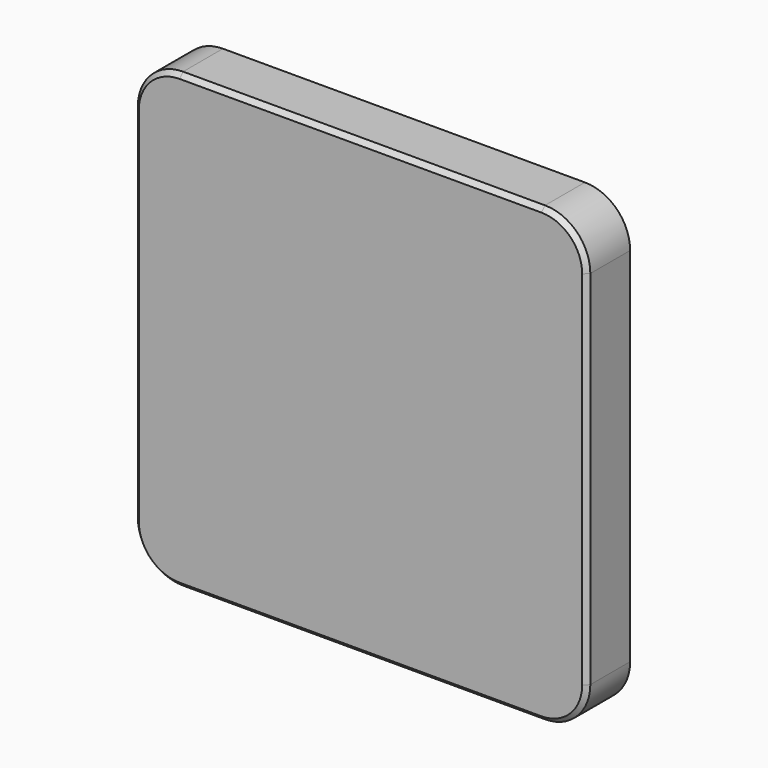
from build123d import *

# Parameters (mm, degrees)
F1_DEPTH = 12
F2_SIZE2 = 1
F2_SIZE  = 1


with BuildPart() as f1:
    # F0 (on Front) → F1 (new body)
    with BuildSketch(Plane.XZ):
        with BuildLine():
            Line((-40, -50), (40, -50))
            ThreePointArc((40, -50), (47.071068, -47.071068), (50, -40))
            Line((50, -40), (50, 40))
            ThreePointArc((50, 40), (47.071068, 47.071068), (40, 50))
            Line((40, 50), (-40, 50))
            ThreePointArc((-40, 50), (-47.071068, 47.071068), (-50, 40))
            Line((-50, 40), (-50, -40))
            ThreePointArc((-50, -40), (-47.071068, -47.071068), (-40, -50))
        make_face()
    extrude(amount=F1_DEPTH)

    # F2
    f2_edges = [f1.edges().sort_by_distance(p)[0] for p in [
        (0, -12, -50),
        (-47.071068, -12, -47.071068),
    ]]
    chamfer(f2_edges, length=F2_SIZE, length2=F2_SIZE2)


solid = f1.part
